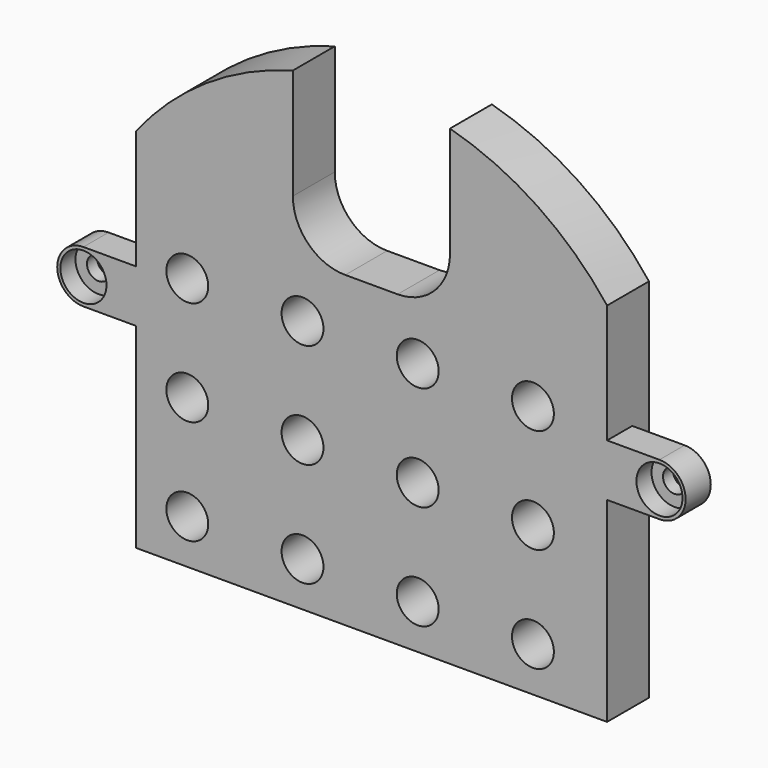
from build123d import *

# Parameters (mm, degrees)
F1_DEPTH       = 5
F2_W           = 15
F2_H           = 33.127493
F3_DEPTH       = 25
F4_R           = 5
F6_DEPTH       = 3
F7_D           = 2.2
F7_DEPTH       = 40
F7_CBORE_D     = 4.4
F7_CBORE_DEPTH = 1.8
F8_R           = 2
F9_DEPTH       = 25


with BuildPart() as f1:
    # F0 (on Front) → F1 (new body)
    with BuildSketch(Plane.XZ):
        with BuildLine():
            Line((-22.5, -17.5), (22.5, -17.5))
            Line((22.5, -17.5), (22.5, 17.5))
            ThreePointArc((22.5, 17.5), (0, 28.504386), (-22.5, 17.5))
            Line((-22.5, 17.5), (-22.5, -17.5))
        make_face()
    extrude(amount=F1_DEPTH)

    # F2 (on face) → F3 (cut)
    with BuildSketch(Plane.XZ.offset(5)):
        with Locations((0, 28.504385)):
            Rectangle(F2_W, F2_H)
    extrude(amount=-F3_DEPTH, mode=Mode.SUBTRACT)

    # F4
    f4_edges = [f1.edges().sort_by_distance(p)[0] for p in [
        (-7.5, -2.5, 11.940639),
        (7.5, -2.5, 11.940639),
    ]]
    fillet(f4_edges, radius=F4_R)

    # F5 (on face) → F6 (join)
    with BuildSketch(Plane.XZ.offset(5)):
        with BuildLine():
            Line((-22.5, 1.162), (-22.5, 6.162))
            Line((-22.5, 6.162), (-27.5, 6.162))
            ThreePointArc((-27.5, 6.162), (-30, 3.662), (-27.5, 1.162))
            Line((-27.5, 1.162), (-22.5, 1.162))
        make_face()
        with BuildLine():
            Line((22.5, 1.162), (27.5, 1.162))
            ThreePointArc((27.5, 1.162), (30, 3.662), (27.5, 6.162))
            Line((27.5, 6.162), (22.5, 6.162))
            Line((22.5, 6.162), (22.5, 1.162))
        make_face()
    extrude(amount=-F6_DEPTH)

    # F7
    with Locations(Plane.XZ.offset(5)):
        with Locations((-27.5, 3.662), (27.5, 3.662)):
            CounterBoreHole(F7_D / 2, F7_CBORE_D / 2, F7_CBORE_DEPTH, depth=F7_DEPTH)

    # F8 (on face) → F9 (cut)
    with BuildSketch(Plane.XZ.offset(5)):
        with Locations((-17.581366, -13.26084)):
            Circle(F8_R)
        with Locations((-17.581366, -3.26084)):
            Circle(F8_R)
        with Locations((-17.581366, 6.73916)):
            Circle(F8_R)
        with Locations((-6.581366, -13.26084)):
            Circle(F8_R)
        with Locations((-6.581366, -3.26084)):
            Circle(F8_R)
        with Locations((-6.581366, 6.73916)):
            Circle(F8_R)
        with Locations((4.418634, -13.26084)):
            Circle(F8_R)
        with Locations((4.418634, -3.26084)):
            Circle(F8_R)
        with Locations((4.418634, 6.73916)):
            Circle(F8_R)
        with Locations((15.418634, -13.26084)):
            Circle(F8_R)
        with Locations((15.418634, -3.26084)):
            Circle(F8_R)
        with Locations((15.418634, 6.73916)):
            Circle(F8_R)
    extrude(amount=-F9_DEPTH, mode=Mode.SUBTRACT)


solid = f1.part
